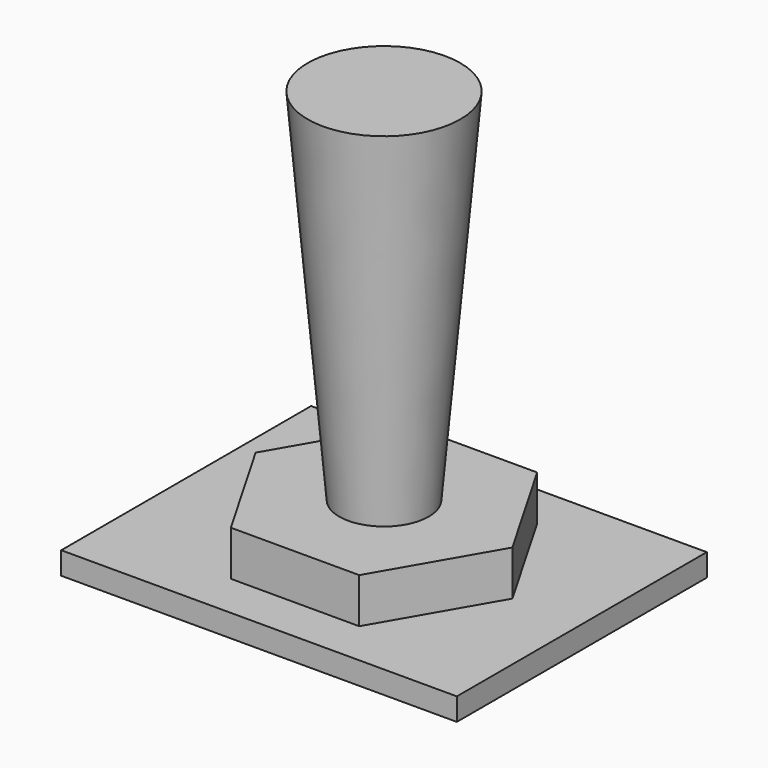
from build123d import *

# Parameters (mm, degrees)
F0_W     = 87.9223719239
F0_H     = 69.4261789322
F1_DEPTH = 5
F3_DEPTH = 10
F4_R     = 9.9566569638
F5_DEPTH = 80
F5_TAPER = -5


with BuildPart() as f1:
    # F0 (on Top) → F1 (new body)
    with BuildSketch(Plane.XY):
        Rectangle(F0_W, F0_H)
    extrude(amount=F1_DEPTH)

    # F2 (on face) → F3 (join)
    with BuildSketch(Plane.XY.offset(5)):
        Polygon((14.2674572932, 24.7119609267), (-14.2674572932, 24.7119609267), (-28.5349145864, 0), (-14.2674572932, -24.7119609267), (14.2674572932, -24.7119609267), (28.5349145864, 0), align=None)
    extrude(amount=F3_DEPTH)

    # F4 (on face) → F5 (join)
    with BuildSketch(Plane.XY.offset(15)):
        Circle(F4_R)
    extrude(amount=F5_DEPTH, taper=F5_TAPER)


solid = f1.part
